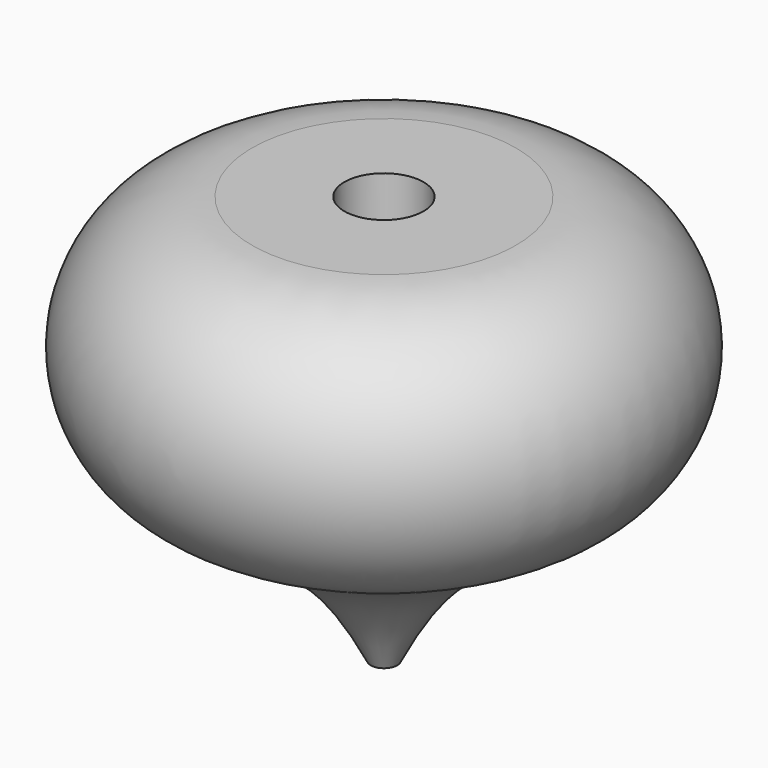
from build123d import *

# Parameters (mm, degrees)
F2_R     = 4.7625
F3_DEPTH = 9.525
F4_R     = 1.5875
F5_DEPTH = 22.225


with BuildPart() as f1:
    # F0 (on Right) → F1 (revolve)
    with BuildSketch(Plane.YZ):
        with BuildLine():
            Line((0, 63.5), (0, 11.1125))
            add(Edge.make_bspline(
                [(0, 11.1125), (2.1673627178, 15.6458601549), (6.7314239675, 25.2035793611), (17.6822634898, 30.7439789651), (23.4314106154, 33.6637578056)],
                knots=[0, 0, 0, 0, 0.4745565147, 1, 1, 1, 1], degree=3))
            ThreePointArc((23.4314106154, 33.6637578056), (31.2641251349, 51.522493115), (15.875, 63.5))
            Line((15.875, 63.5), (0, 63.5))
        make_face()
    revolve(axis=Axis((0, 0, 37.30625), (0, 0, 1)))

    # F2 (on face) → F3 (cut)
    with BuildSketch(Plane.XY.offset(63.5)):
        Circle(F2_R)
    extrude(amount=-F3_DEPTH, mode=Mode.SUBTRACT)

    # F4 (on Top) → F5 (cut)
    with BuildSketch(Plane.XY):
        Circle(F4_R)
    extrude(amount=F5_DEPTH, mode=Mode.SUBTRACT)


solid = f1.part
